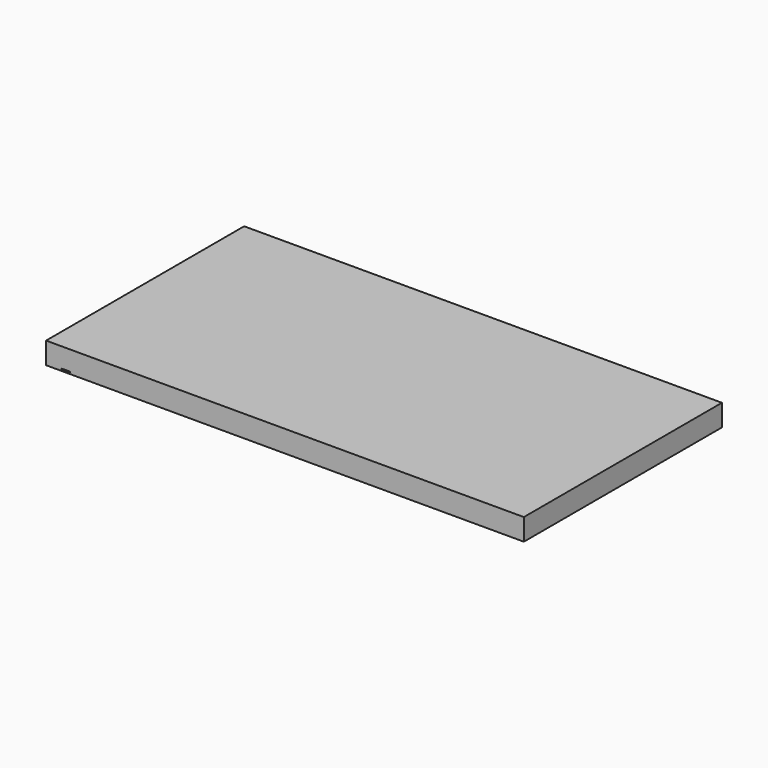
from build123d import *

# Parameters (mm, degrees)
F0_W     = 698.5
F0_H     = 31.75
F1_DEPTH = 361.95
F2_W     = 12.7
F2_H     = 1.5875
F3_DEPTH = 22.225
F4_W     = 12.7
F4_H     = 1.5875
F5_DEPTH = 22.225


with BuildPart() as f1:
    # F0 (on Front) → F1 (new body)
    with BuildSketch(Plane.XZ):
        with Locations((199.500215, -15.875)):
            Rectangle(F0_W, F0_H)
    extrude(amount=-F1_DEPTH)

    # F2 (on face) → F3 (cut)
    with BuildSketch(Plane.XZ):
        with Locations((-121.174785, -29.36875)):
            Rectangle(F2_W, F2_H)
    extrude(amount=-F3_DEPTH, mode=Mode.SUBTRACT)

    # F4 (on face) → F5 (cut)
    with BuildSketch(Plane(origin=(0, 361.95, 0), x_dir=(-1, 0, 0), z_dir=(0, 1, 0))):
        with Locations((121.174785, -29.36875)):
            Rectangle(F4_W, F4_H)
    extrude(amount=-F5_DEPTH, mode=Mode.SUBTRACT)


solid = f1.part
